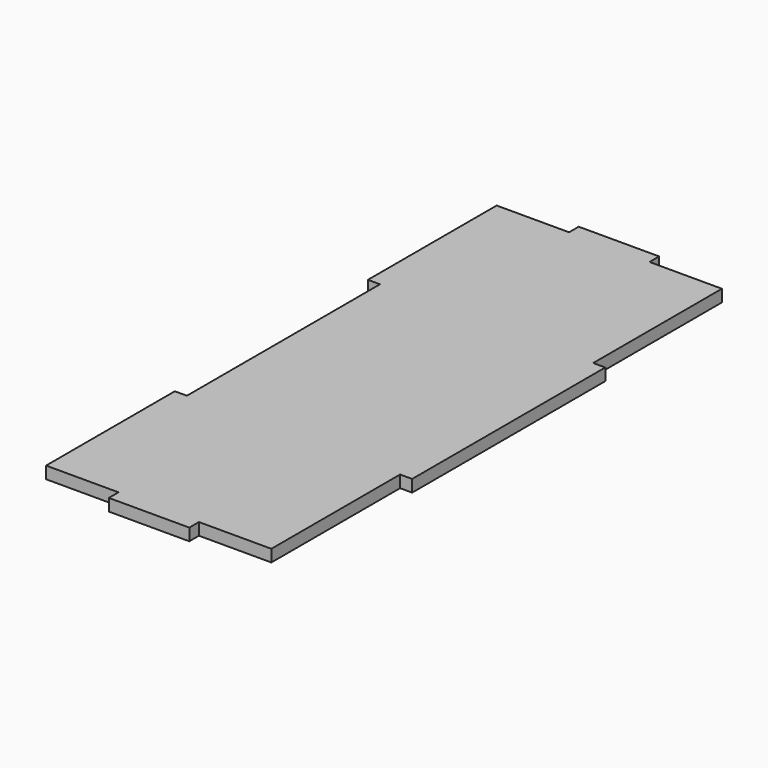
from build123d import *

# Parameters (mm, degrees)
F1_DEPTH = 3


with BuildPart() as f1:
    # F0 (on Top) → F1 (new body)
    with BuildSketch(Plane.XY):
        Polygon((10, -70), (28, -70), (28, -30), (31, -30), (31, 30), (28, 30), (28, 70), (10, 70), (10, 73), (-10, 73), (-10, 70), (-28, 70), (-28, 30), (-25, 30), (-25, -30), (-28, -30), (-28, -70), (-10, -70), (-10, -73), (10, -73), align=None)
    extrude(amount=F1_DEPTH)


solid = f1.part
